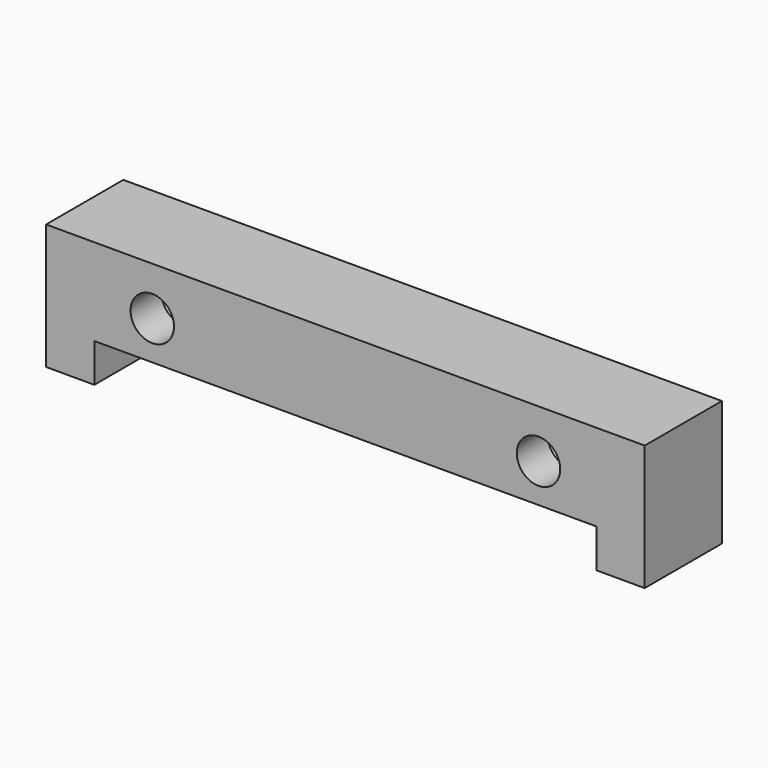
from build123d import *

# Parameters (mm, degrees)
F1_DEPTH = 10
F3_D     = 4.5
F3_DEPTH = 4
F3_TIP   = 1.3519363928


with BuildPart() as f1:
    # F0 (on Front) → F1 (new body)
    with BuildSketch(Plane.XZ):
        Polygon((0, 13), (0, 0), (5, 0), (5, 4), (57, 4), (57, 0), (62, 0), (62, 13), align=None)
    extrude(amount=F1_DEPTH)

    # F3
    with Locations(Plane.XZ.offset(10)):
        with Locations((11, 8), (51, 8)):
            Hole(F3_D / 2, depth=F3_DEPTH)
            with Locations((0, 0, -(F3_DEPTH + F3_TIP / 2))):  # 118° drill point
                Cone(0, F3_D / 2, F3_TIP, mode=Mode.SUBTRACT)


solid = f1.part
